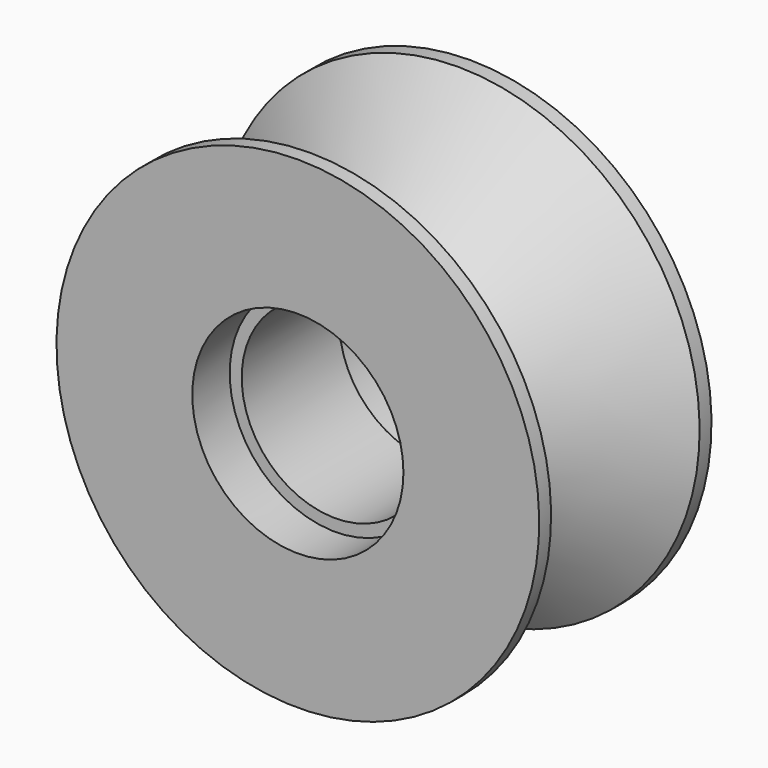
from build123d import *

# Parameters (mm, degrees)
F2_R     = 45.1358
F3_DEPTH = 20
F4_R     = 45.1358
F5_DEPTH = 20
F6_R     = 40
F7_DEPTH = 127


with BuildPart() as f1:
    # F0 (on Right) → F1 (revolve)
    with BuildSketch(Plane.YZ):
        Polygon((-46.0375, 0), (0, 0), (0, 50.8), (-39.6875, 103.1875), (-46.0375, 103.1875), align=None)
        Polygon((0, 0), (46.0375, 0), (46.0375, 103.1875), (39.6875, 103.1875), (0, 50.8), align=None)
    revolve(axis=Axis((0, 0, 0), (0, 1, 0)))

    # F2 (on face) → F3 (cut)
    with BuildSketch(Plane(origin=(0, 46.0375, 0), x_dir=(-1, 0, 0), z_dir=(0, 1, 0))):
        Circle(F2_R)
    extrude(amount=-F3_DEPTH, mode=Mode.SUBTRACT)

    # F4 (on face) → F5 (cut)
    with BuildSketch(Plane.XZ.offset(46.0375)):
        Circle(F4_R)
    extrude(amount=-F5_DEPTH, mode=Mode.SUBTRACT)

    # F6 (on face) → F7 (cut)
    with BuildSketch(Plane.XZ.offset(26.0375)):
        Circle(F6_R)
    extrude(amount=-F7_DEPTH, mode=Mode.SUBTRACT)


solid = f1.part
